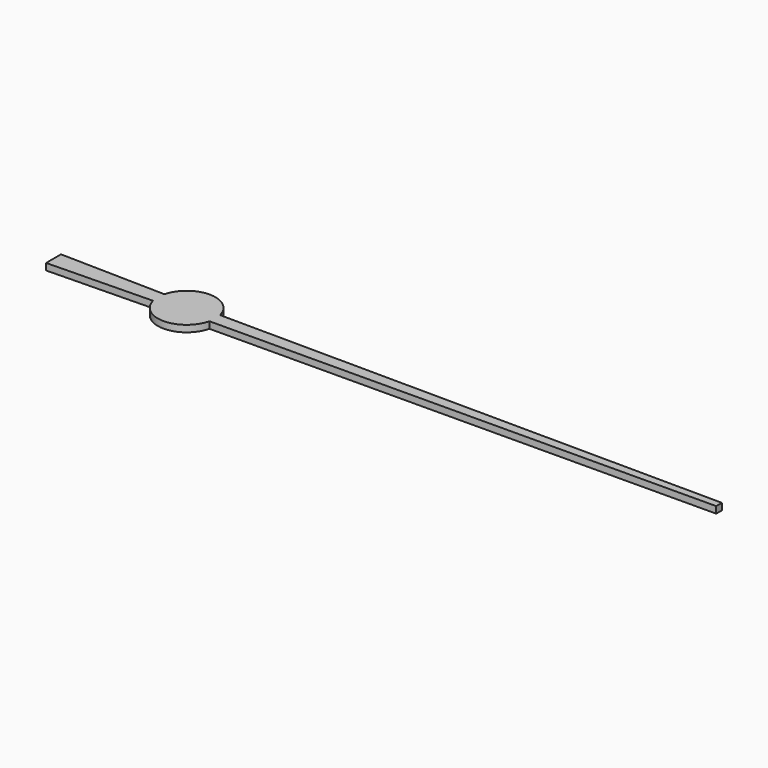
from build123d import *

# Parameters (mm, degrees)
F1_DEPTH = 0.15


with BuildPart() as f1:
    # F0 (on Top) → F1 (new body)
    with BuildSketch(Plane.XY):
        with BuildLine():
            Line((12, 0.08), (0.632456, 0.15))
            ThreePointArc((0.632456, 0.15), (0.005149, 0.64998), (-0.63, 0.16))
            Line((-0.63, 0.16), (-3, 0.21))
            Line((-3, 0.21), (-3, 0))
            Line((-3, 0), (-3, -0.21))
            Line((-3, -0.21), (-0.63, -0.16))
            ThreePointArc((-0.63, -0.16), (0.005149, -0.64998), (0.632456, -0.15))
            Line((0.632456, -0.15), (12, -0.08))
            Line((12, -0.08), (12, 0))
            Line((12, 0), (12, 0.08))
        make_face()
    extrude(amount=F1_DEPTH)


solid = f1.part
